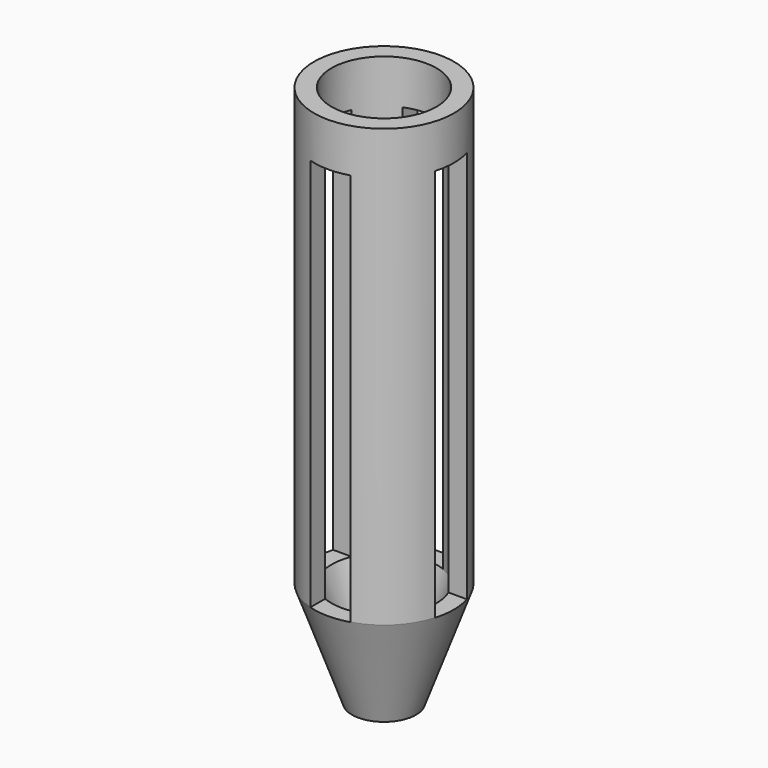
from build123d import *

# Parameters (mm, degrees)
F2_W     = 4.6
F2_H     = 45
F3_DEPTH = 12.5
F4_W     = 4.6
F4_H     = 45
F5_DEPTH = 12.5


with BuildPart() as f1:
    # F0 (on Right) → F1 (revolve)
    with BuildSketch(Plane.YZ):
        Polygon((-6, 0), (-6, 50), (-8, 50), (-8, 0.018575), (-3.663243, -12), (-2.5, -12), (-2.5, -9.5), align=None)
    revolve(axis=Axis((0, 0, 4.996806), (0, 0, -1)))

    # F2 (on Front) → F3 (cut, symmetric)
    with BuildSketch(Plane.XZ):
        with Locations((0, 22.5)):
            Rectangle(F2_W, F2_H)
    extrude(amount=F3_DEPTH, both=True, mode=Mode.SUBTRACT)

    # F4 (on Right) → F5 (cut, symmetric)
    with BuildSketch(Plane.YZ):
        with Locations((0, 22.5)):
            Rectangle(F4_W, F4_H)
    extrude(amount=F5_DEPTH, both=True, mode=Mode.SUBTRACT)


solid = f1.part
